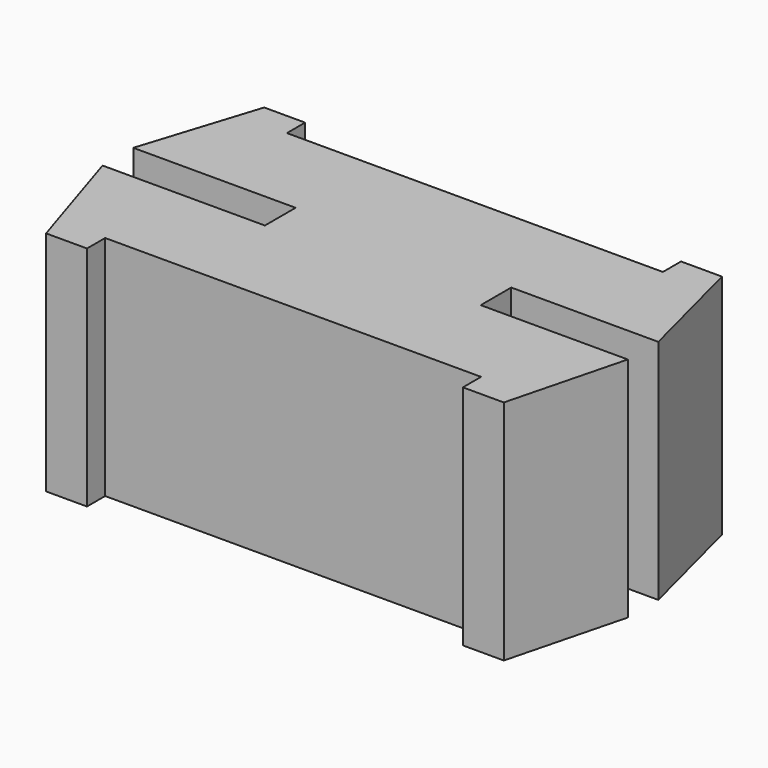
from build123d import *

# Parameters (mm, degrees)
F1_DEPTH = 6.35


with BuildPart() as f1:
    # F0 (on Top) → F1 (new body)
    with BuildSketch(Plane.XY):
        Polygon((-2.899504, 0.53663), (-2.899504, 0), (3.129742, 0), (3.129742, 0.5334), (5.253811, 0.5334), (5.253811, 3.175), (-5.253811, 3.175), (-5.253811, 0.53663), align=None)
        Polygon((3.129742, 0), (-2.899504, 0), (-2.899504, -0.53663), (-5.253811, -0.53663), (-5.253811, -3.175), (5.253811, -3.175), (5.253811, -0.5334), (3.129742, -0.5334), align=None)
        Polygon((5.253811, -0.5334), (5.253811, -3.175), (5.253811, -3.81), (6.396811, -3.81), (7.240531, -0.5334), align=None)
        Polygon((5.253811, 3.81), (5.253811, 3.175), (5.253811, 0.5334), (7.240531, 0.5334), (6.396811, 3.81), align=None)
        Polygon((-6.396811, 3.81), (-7.437509, 0.53663), (-5.253811, 0.53663), (-5.253811, 3.175), (-5.253811, 3.81), align=None)
        Polygon((-5.253811, -0.53663), (-7.437509, -0.53663), (-6.396811, -3.81), (-5.253811, -3.81), (-5.253811, -3.175), align=None)
    extrude(amount=F1_DEPTH)


solid = f1.part
